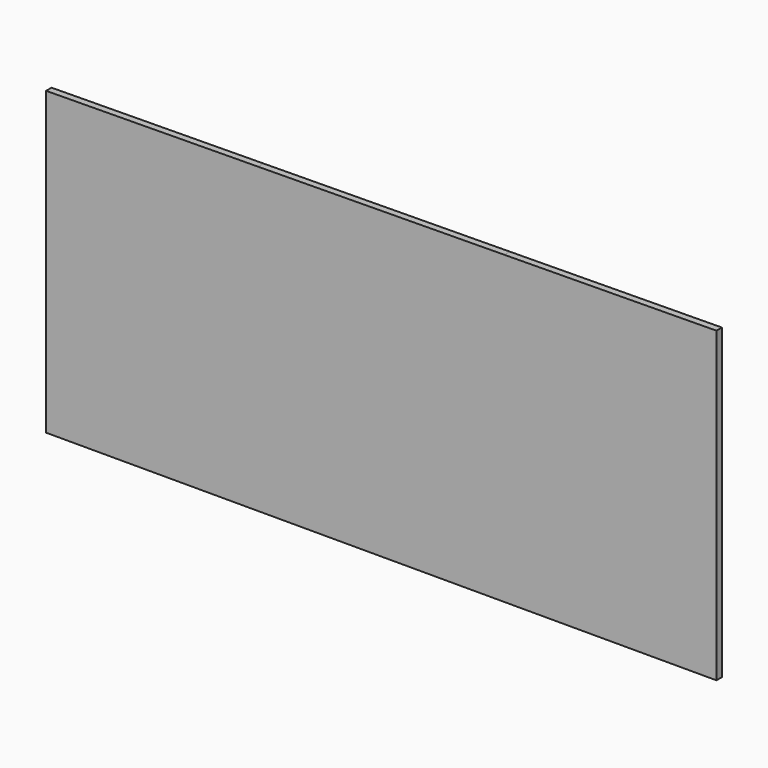
from build123d import *

# Parameters (mm, degrees)
F1_DEPTH = 10


with BuildPart() as f1:
    # F0 (on Front) → F1 (new body)
    with BuildSketch(Plane.XZ):
        Polygon((-979.948978, 439.999997), (-980, 0), (-670, 0), (-670, 443.162907), align=None)
        Polygon((-670, 443.162907), (-670, 0), (-310, 0), (-310, 446.836569), align=None)
        Polygon((-310, 446.836569), (-310, 0), (0, 0), (0, 450), align=None)
    extrude(amount=F1_DEPTH)


solid = f1.part
